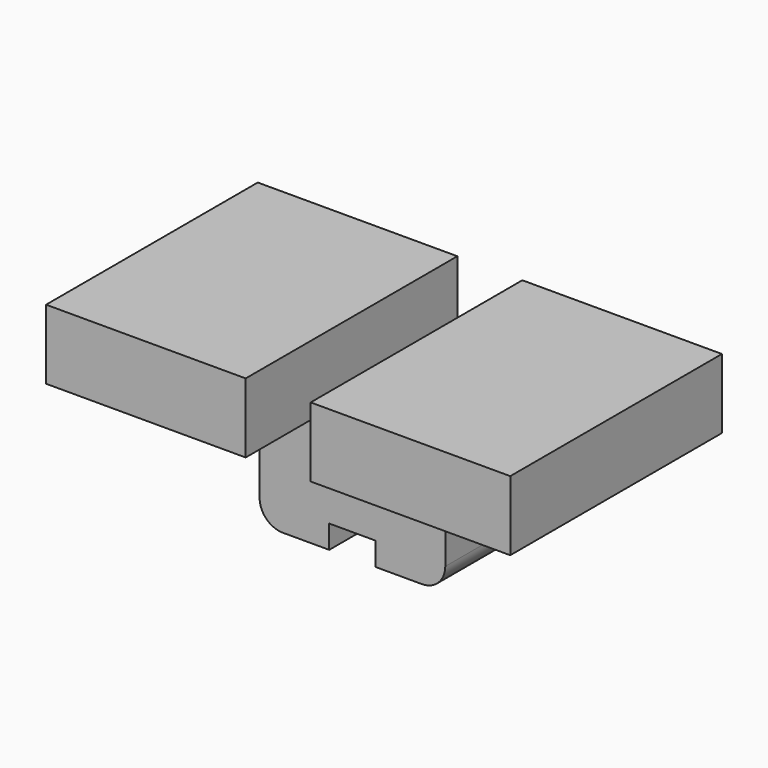
from build123d import *

# Parameters (mm, degrees)
F0_W     = 1.4
F0_H     = 2
F1_DEPTH = 1.5
F0_H_2   = 1.1
F0_H_3   = 1.5
F2_DEPTH = 4
F3_DEPTH = 1.8
F4_W     = 1
F4_H     = 3.7
F5_DEPTH = 0.5
F6_R     = 0.5


with BuildPart() as f1:
    # F0 (on Top) → F1 (new body)
    with BuildSketch(Plane.XY):
        Polygon((2, -1.85), (0.7, -1.85), (0.7, -3.85), (5, -3.85), (5, 1.85), (2, 1.85), align=None)
        with Locations((0, -2.85)):
            Rectangle(F0_W, F0_H)
        Polygon((-0.7, -3.85), (-0.7, -1.85), (-2, -1.85), (-2, 1.85), (-5, 1.85), (-5, -3.85), align=None)
        Polygon((-0.7, -3.85), (-0.7, -1.85), (-2, -1.85), (-2, 1.85), (-5, 1.85), (-5, -3.85), align=None)
        Polygon((2, -1.85), (0.7, -1.85), (0.7, -3.85), (5, -3.85), (5, 1.85), (2, 1.85), align=None)
    extrude(amount=-F1_DEPTH)

    # F0 (on Top) → F2 (join)
    with BuildSketch(Plane.XY):
        with Locations((0, -1.3)):
            Rectangle(F0_W, F0_H_2)
        Rectangle(F0_W, F0_H_3)
        Polygon((-0.7, -1.85), (-0.7, -0.75), (-0.7, 0.75), (-0.7, 1.85), (-2, 1.85), (-2, -1.85), align=None)
        with Locations((0, 1.3)):
            Rectangle(F0_W, F0_H_2)
        Polygon((0.7, 0.75), (0.7, -0.75), (0.7, -1.85), (2, -1.85), (2, 1.85), (0.7, 1.85), align=None)
    extrude(amount=-F2_DEPTH)

    # F0 (on Top) → F3 (cut)
    with BuildSketch(Plane.XY):
        Rectangle(F0_W, F0_H_3)
        with Locations((0, 1.3)):
            Rectangle(F0_W, F0_H_2)
        with Locations((0, -1.3)):
            Rectangle(F0_W, F0_H_2)
        with Locations((0, -2.85)):
            Rectangle(F0_W, F0_H)
    extrude(amount=-F3_DEPTH, mode=Mode.SUBTRACT)

    # F4 (on face) → F5 (cut)
    with BuildSketch(Plane(origin=(0, 0, -4), x_dir=(1, 0, 0), z_dir=(0, 0, -1))):
        Rectangle(F4_W, F4_H)
    extrude(amount=-F5_DEPTH, mode=Mode.SUBTRACT)

    # F6
    f6_edges = [f1.edges().sort_by_distance(p)[0] for p in [
        (-2, 0, -4),
        (2, 0, -4),
    ]]
    fillet(f6_edges, radius=F6_R)


solid = f1.part
